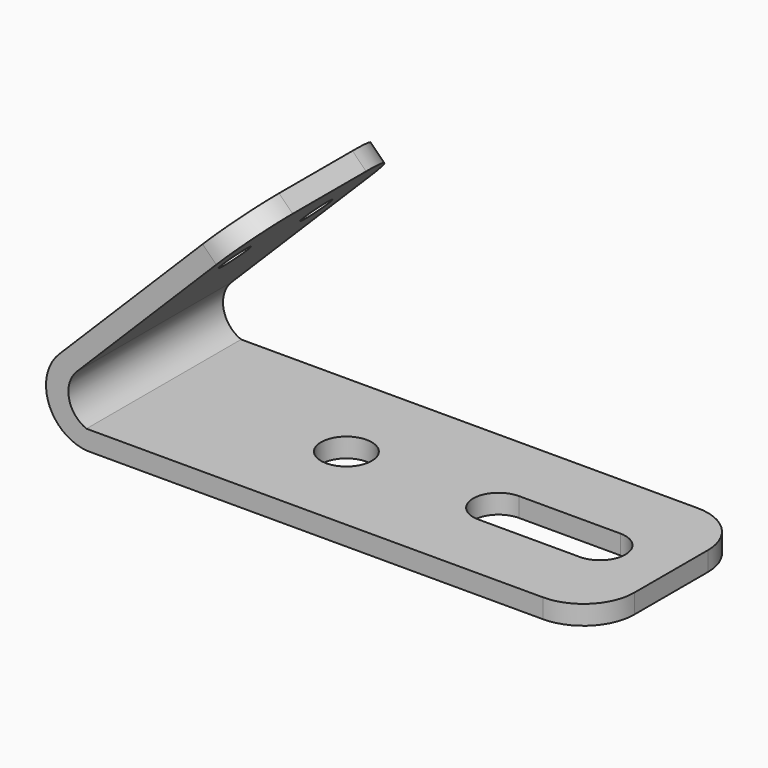
from build123d import *

# Parameters (mm, degrees)
F0_R     = 63.5
F1_DEPTH = 48.26
F3_DEPTH = 241.935
F4_R     = 127
F5_R     = 38.1
F6_DEPTH = 48.26


with BuildPart() as f1:
    # F0 (on Top) → F1 (new body)
    with BuildSketch(Plane.XY):
        with BuildLine():
            ThreePointArc((508, -241.935), (597.802561, -204.737561), (635, -114.935))
            Line((635, -114.935), (635, 114.935))
            ThreePointArc((635, 114.935), (597.802561, 204.737561), (508, 241.935))
            Line((508, 241.935), (-635, 241.935))
            Line((-635, 241.935), (-635, -241.935))
            Line((-635, -241.935), (508, -241.935))
        make_face()
        with Locations((-177.8, 0)):
            Circle(F0_R, mode=Mode.SUBTRACT)
        with BuildLine():
            ThreePointArc((457.2, 63.5), (502.101281, 44.901281), (520.7, 0))
            ThreePointArc((520.7, 0), (502.101281, -44.901281), (457.2, -63.5))
            Line((457.2, -63.5), (203.2, -63.5))
            ThreePointArc((203.2, -63.5), (139.7, 0), (203.2, 63.5))
            Line((203.2, 63.5), (457.2, 63.5))
        make_face(mode=Mode.SUBTRACT)
    extrude(amount=F1_DEPTH)

    # F2 (on Front) → F3 (join, symmetric)
    with BuildSketch(Plane.XZ):
        with BuildLine():
            Line((-635, 0), (-635, 48.26))
            ThreePointArc((-635, 48.26), (-678.78211, 100.883692), (-659.057343, 166.435654))
            Line((-659.057343, 166.435654), (-703.457534, 190.28541))
            ThreePointArc((-703.457534, 190.28541), (-729.592819, 73.425989), (-635, 0))
        make_face()
        Polygon((-703.457534, 190.28541), (-659.057343, 166.435654), (-220.319755, 605.173243), (-254.444728, 639.298216), align=None)
    extrude(amount=F3_DEPTH, both=True)

    # F4
    f4_edges = [f1.edges().sort_by_distance(p)[0] for p in [
        (-237.382242, 241.935, 622.235729),
        (-237.382242, -241.935, 622.235729),
    ]]
    fillet(f4_edges, radius=F4_R)

    # F5 (on face) → F6 (cut)
    with BuildSketch(Plane(origin=(-446.871472, 0, 446.871472), x_dir=(0, -1, 0), z_dir=(-0.707107, 0, 0.707107))):
        with BuildLine():
            ThreePointArc((165.735, 81.632511), (127.635, 119.732511), (89.535, 81.632511))
            ThreePointArc((89.535, 81.632511), (127.635, 43.532511), (165.735, 81.632511))
        make_face()
        with Locations((-127.635, 81.632511)):
            Circle(F5_R)
    extrude(amount=-F6_DEPTH, mode=Mode.SUBTRACT)


solid = f1.part
